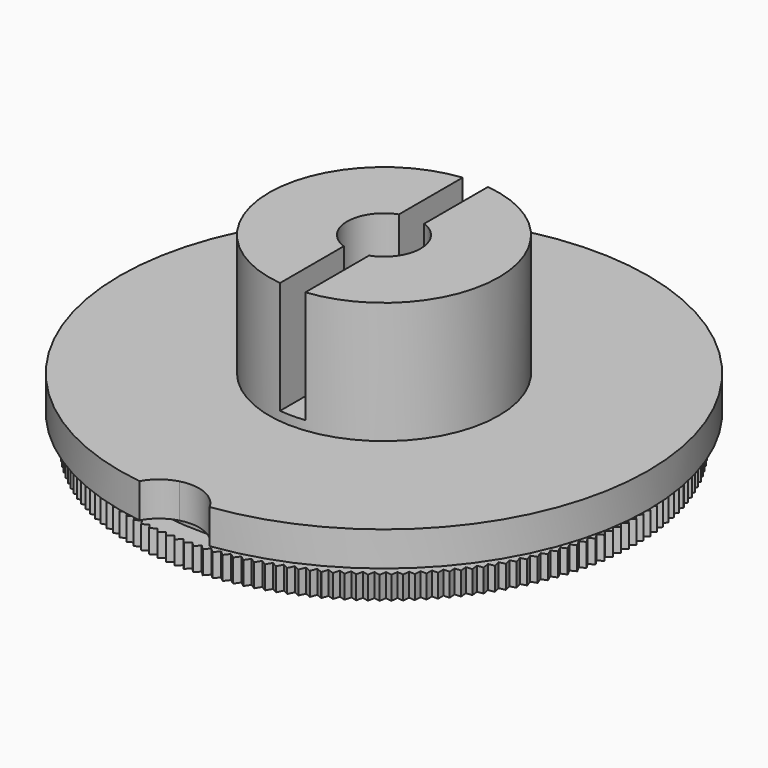
from build123d import *

# Parameters (mm, degrees)
F3_DEPTH  = 1
F4_COUNT  = 173
F4_ANGLE  = 357.927
F8_DEPTH  = 0.8
F10_DEPTH = 1.5
F12_DEPTH = 4.9


with BuildPart() as f1:
    # F0 (on Front) → F1 (revolve)
    with BuildSketch(Plane.XZ):
        Polygon((4.3, 0), (5, 0), (5, 1.7), (11, 1.7), (11, 2.7), (10, 2.7), (10, 3.2), (11.5, 3.2), (11.5, 4.7), (5, 4.7), (5, 10), (1.6, 10), (1.6, 5), (4, 5), (4, 0.3), align=None)
    revolve(axis=Axis((0, 0, 5), (0, 0, 1)))


with BuildPart() as f3:
    # F2 (on face) → F3 (new body, through all)
    with BuildSketch(Plane(origin=(0, 0, 1.7), x_dir=(1, 0, 0), z_dir=(0, 0, -1))):
        with BuildLine():
            Line((-10.9978550222, -0.217220881), (-10.8, 0))
            Line((-10.8, 0), (-10.9985137939, 0.180815725))
            ThreePointArc((-10.9985137939, 0.180815725), (-10.9999849344, -0.0182055579), (-10.9978550222, -0.217220881))
        make_face()
    extrude(amount=-F3_DEPTH)


with BuildPart() as f4_1:
    # F4: instance of F3
    add(f3.part.rotate(Axis((0, 0, 5), (0, 0, 1)), 1 * F4_ANGLE / (F4_COUNT - 1)))


with BuildPart() as f4_2:
    # F4: instance of F3
    add(f3.part.rotate(Axis((0, 0, 5), (0, 0, 1)), 2 * F4_ANGLE / (F4_COUNT - 1)))


with BuildPart() as f4_3:
    # F4: instance of F3
    add(f3.part.rotate(Axis((0, 0, 5), (0, 0, 1)), 3 * F4_ANGLE / (F4_COUNT - 1)))


with BuildPart() as f4_4:
    # F4: instance of F3
    add(f3.part.rotate(Axis((0, 0, 5), (0, 0, 1)), 4 * F4_ANGLE / (F4_COUNT - 1)))


with BuildPart() as f4_5:
    # F4: instance of F3
    add(f3.part.rotate(Axis((0, 0, 5), (0, 0, 1)), 5 * F4_ANGLE / (F4_COUNT - 1)))


with BuildPart() as f4_6:
    # F4: instance of F3
    add(f3.part.rotate(Axis((0, 0, 5), (0, 0, 1)), 6 * F4_ANGLE / (F4_COUNT - 1)))


with BuildPart() as f4_7:
    # F4: instance of F3
    add(f3.part.rotate(Axis((0, 0, 5), (0, 0, 1)), 7 * F4_ANGLE / (F4_COUNT - 1)))


with BuildPart() as f4_8:
    # F4: instance of F3
    add(f3.part.rotate(Axis((0, 0, 5), (0, 0, 1)), 8 * F4_ANGLE / (F4_COUNT - 1)))


with BuildPart() as f4_9:
    # F4: instance of F3
    add(f3.part.rotate(Axis((0, 0, 5), (0, 0, 1)), 9 * F4_ANGLE / (F4_COUNT - 1)))


with BuildPart() as f4_10:
    # F4: instance of F3
    add(f3.part.rotate(Axis((0, 0, 5), (0, 0, 1)), 10 * F4_ANGLE / (F4_COUNT - 1)))


with BuildPart() as f4_11:
    # F4: instance of F3
    add(f3.part.rotate(Axis((0, 0, 5), (0, 0, 1)), 11 * F4_ANGLE / (F4_COUNT - 1)))


with BuildPart() as f4_12:
    # F4: instance of F3
    add(f3.part.rotate(Axis((0, 0, 5), (0, 0, 1)), 12 * F4_ANGLE / (F4_COUNT - 1)))


with BuildPart() as f4_13:
    # F4: instance of F3
    add(f3.part.rotate(Axis((0, 0, 5), (0, 0, 1)), 13 * F4_ANGLE / (F4_COUNT - 1)))


with BuildPart() as f4_14:
    # F4: instance of F3
    add(f3.part.rotate(Axis((0, 0, 5), (0, 0, 1)), 14 * F4_ANGLE / (F4_COUNT - 1)))


with BuildPart() as f4_15:
    # F4: instance of F3
    add(f3.part.rotate(Axis((0, 0, 5), (0, 0, 1)), 15 * F4_ANGLE / (F4_COUNT - 1)))


with BuildPart() as f4_16:
    # F4: instance of F3
    add(f3.part.rotate(Axis((0, 0, 5), (0, 0, 1)), 16 * F4_ANGLE / (F4_COUNT - 1)))


with BuildPart() as f4_17:
    # F4: instance of F3
    add(f3.part.rotate(Axis((0, 0, 5), (0, 0, 1)), 17 * F4_ANGLE / (F4_COUNT - 1)))


with BuildPart() as f4_18:
    # F4: instance of F3
    add(f3.part.rotate(Axis((0, 0, 5), (0, 0, 1)), 18 * F4_ANGLE / (F4_COUNT - 1)))


with BuildPart() as f4_19:
    # F4: instance of F3
    add(f3.part.rotate(Axis((0, 0, 5), (0, 0, 1)), 19 * F4_ANGLE / (F4_COUNT - 1)))


with BuildPart() as f4_20:
    # F4: instance of F3
    add(f3.part.rotate(Axis((0, 0, 5), (0, 0, 1)), 20 * F4_ANGLE / (F4_COUNT - 1)))


with BuildPart() as f4_21:
    # F4: instance of F3
    add(f3.part.rotate(Axis((0, 0, 5), (0, 0, 1)), 21 * F4_ANGLE / (F4_COUNT - 1)))


with BuildPart() as f4_22:
    # F4: instance of F3
    add(f3.part.rotate(Axis((0, 0, 5), (0, 0, 1)), 22 * F4_ANGLE / (F4_COUNT - 1)))


with BuildPart() as f4_23:
    # F4: instance of F3
    add(f3.part.rotate(Axis((0, 0, 5), (0, 0, 1)), 23 * F4_ANGLE / (F4_COUNT - 1)))


with BuildPart() as f4_24:
    # F4: instance of F3
    add(f3.part.rotate(Axis((0, 0, 5), (0, 0, 1)), 24 * F4_ANGLE / (F4_COUNT - 1)))


with BuildPart() as f4_25:
    # F4: instance of F3
    add(f3.part.rotate(Axis((0, 0, 5), (0, 0, 1)), 25 * F4_ANGLE / (F4_COUNT - 1)))


with BuildPart() as f4_26:
    # F4: instance of F3
    add(f3.part.rotate(Axis((0, 0, 5), (0, 0, 1)), 26 * F4_ANGLE / (F4_COUNT - 1)))


with BuildPart() as f4_27:
    # F4: instance of F3
    add(f3.part.rotate(Axis((0, 0, 5), (0, 0, 1)), 27 * F4_ANGLE / (F4_COUNT - 1)))


with BuildPart() as f4_28:
    # F4: instance of F3
    add(f3.part.rotate(Axis((0, 0, 5), (0, 0, 1)), 28 * F4_ANGLE / (F4_COUNT - 1)))


with BuildPart() as f4_29:
    # F4: instance of F3
    add(f3.part.rotate(Axis((0, 0, 5), (0, 0, 1)), 29 * F4_ANGLE / (F4_COUNT - 1)))


with BuildPart() as f4_30:
    # F4: instance of F3
    add(f3.part.rotate(Axis((0, 0, 5), (0, 0, 1)), 30 * F4_ANGLE / (F4_COUNT - 1)))


with BuildPart() as f4_31:
    # F4: instance of F3
    add(f3.part.rotate(Axis((0, 0, 5), (0, 0, 1)), 31 * F4_ANGLE / (F4_COUNT - 1)))


with BuildPart() as f4_32:
    # F4: instance of F3
    add(f3.part.rotate(Axis((0, 0, 5), (0, 0, 1)), 32 * F4_ANGLE / (F4_COUNT - 1)))


with BuildPart() as f4_33:
    # F4: instance of F3
    add(f3.part.rotate(Axis((0, 0, 5), (0, 0, 1)), 33 * F4_ANGLE / (F4_COUNT - 1)))


with BuildPart() as f4_34:
    # F4: instance of F3
    add(f3.part.rotate(Axis((0, 0, 5), (0, 0, 1)), 34 * F4_ANGLE / (F4_COUNT - 1)))


with BuildPart() as f4_35:
    # F4: instance of F3
    add(f3.part.rotate(Axis((0, 0, 5), (0, 0, 1)), 35 * F4_ANGLE / (F4_COUNT - 1)))


with BuildPart() as f4_36:
    # F4: instance of F3
    add(f3.part.rotate(Axis((0, 0, 5), (0, 0, 1)), 36 * F4_ANGLE / (F4_COUNT - 1)))


with BuildPart() as f4_37:
    # F4: instance of F3
    add(f3.part.rotate(Axis((0, 0, 5), (0, 0, 1)), 37 * F4_ANGLE / (F4_COUNT - 1)))


with BuildPart() as f4_38:
    # F4: instance of F3
    add(f3.part.rotate(Axis((0, 0, 5), (0, 0, 1)), 38 * F4_ANGLE / (F4_COUNT - 1)))


with BuildPart() as f4_39:
    # F4: instance of F3
    add(f3.part.rotate(Axis((0, 0, 5), (0, 0, 1)), 39 * F4_ANGLE / (F4_COUNT - 1)))


with BuildPart() as f4_40:
    # F4: instance of F3
    add(f3.part.rotate(Axis((0, 0, 5), (0, 0, 1)), 40 * F4_ANGLE / (F4_COUNT - 1)))


with BuildPart() as f4_41:
    # F4: instance of F3
    add(f3.part.rotate(Axis((0, 0, 5), (0, 0, 1)), 41 * F4_ANGLE / (F4_COUNT - 1)))


with BuildPart() as f4_42:
    # F4: instance of F3
    add(f3.part.rotate(Axis((0, 0, 5), (0, 0, 1)), 42 * F4_ANGLE / (F4_COUNT - 1)))


with BuildPart() as f4_43:
    # F4: instance of F3
    add(f3.part.rotate(Axis((0, 0, 5), (0, 0, 1)), 43 * F4_ANGLE / (F4_COUNT - 1)))


with BuildPart() as f4_44:
    # F4: instance of F3
    add(f3.part.rotate(Axis((0, 0, 5), (0, 0, 1)), 44 * F4_ANGLE / (F4_COUNT - 1)))


with BuildPart() as f4_45:
    # F4: instance of F3
    add(f3.part.rotate(Axis((0, 0, 5), (0, 0, 1)), 45 * F4_ANGLE / (F4_COUNT - 1)))


with BuildPart() as f4_46:
    # F4: instance of F3
    add(f3.part.rotate(Axis((0, 0, 5), (0, 0, 1)), 46 * F4_ANGLE / (F4_COUNT - 1)))


with BuildPart() as f4_47:
    # F4: instance of F3
    add(f3.part.rotate(Axis((0, 0, 5), (0, 0, 1)), 47 * F4_ANGLE / (F4_COUNT - 1)))


with BuildPart() as f4_48:
    # F4: instance of F3
    add(f3.part.rotate(Axis((0, 0, 5), (0, 0, 1)), 48 * F4_ANGLE / (F4_COUNT - 1)))


with BuildPart() as f4_49:
    # F4: instance of F3
    add(f3.part.rotate(Axis((0, 0, 5), (0, 0, 1)), 49 * F4_ANGLE / (F4_COUNT - 1)))


with BuildPart() as f4_50:
    # F4: instance of F3
    add(f3.part.rotate(Axis((0, 0, 5), (0, 0, 1)), 50 * F4_ANGLE / (F4_COUNT - 1)))


with BuildPart() as f4_51:
    # F4: instance of F3
    add(f3.part.rotate(Axis((0, 0, 5), (0, 0, 1)), 51 * F4_ANGLE / (F4_COUNT - 1)))


with BuildPart() as f4_52:
    # F4: instance of F3
    add(f3.part.rotate(Axis((0, 0, 5), (0, 0, 1)), 52 * F4_ANGLE / (F4_COUNT - 1)))


with BuildPart() as f4_53:
    # F4: instance of F3
    add(f3.part.rotate(Axis((0, 0, 5), (0, 0, 1)), 53 * F4_ANGLE / (F4_COUNT - 1)))


with BuildPart() as f4_54:
    # F4: instance of F3
    add(f3.part.rotate(Axis((0, 0, 5), (0, 0, 1)), 54 * F4_ANGLE / (F4_COUNT - 1)))


with BuildPart() as f4_55:
    # F4: instance of F3
    add(f3.part.rotate(Axis((0, 0, 5), (0, 0, 1)), 55 * F4_ANGLE / (F4_COUNT - 1)))


with BuildPart() as f4_56:
    # F4: instance of F3
    add(f3.part.rotate(Axis((0, 0, 5), (0, 0, 1)), 56 * F4_ANGLE / (F4_COUNT - 1)))


with BuildPart() as f4_57:
    # F4: instance of F3
    add(f3.part.rotate(Axis((0, 0, 5), (0, 0, 1)), 57 * F4_ANGLE / (F4_COUNT - 1)))


with BuildPart() as f4_58:
    # F4: instance of F3
    add(f3.part.rotate(Axis((0, 0, 5), (0, 0, 1)), 58 * F4_ANGLE / (F4_COUNT - 1)))


with BuildPart() as f4_59:
    # F4: instance of F3
    add(f3.part.rotate(Axis((0, 0, 5), (0, 0, 1)), 59 * F4_ANGLE / (F4_COUNT - 1)))


with BuildPart() as f4_60:
    # F4: instance of F3
    add(f3.part.rotate(Axis((0, 0, 5), (0, 0, 1)), 60 * F4_ANGLE / (F4_COUNT - 1)))


with BuildPart() as f4_61:
    # F4: instance of F3
    add(f3.part.rotate(Axis((0, 0, 5), (0, 0, 1)), 61 * F4_ANGLE / (F4_COUNT - 1)))


with BuildPart() as f4_62:
    # F4: instance of F3
    add(f3.part.rotate(Axis((0, 0, 5), (0, 0, 1)), 62 * F4_ANGLE / (F4_COUNT - 1)))


with BuildPart() as f4_63:
    # F4: instance of F3
    add(f3.part.rotate(Axis((0, 0, 5), (0, 0, 1)), 63 * F4_ANGLE / (F4_COUNT - 1)))


with BuildPart() as f4_64:
    # F4: instance of F3
    add(f3.part.rotate(Axis((0, 0, 5), (0, 0, 1)), 64 * F4_ANGLE / (F4_COUNT - 1)))


with BuildPart() as f4_65:
    # F4: instance of F3
    add(f3.part.rotate(Axis((0, 0, 5), (0, 0, 1)), 65 * F4_ANGLE / (F4_COUNT - 1)))


with BuildPart() as f4_66:
    # F4: instance of F3
    add(f3.part.rotate(Axis((0, 0, 5), (0, 0, 1)), 66 * F4_ANGLE / (F4_COUNT - 1)))


with BuildPart() as f4_67:
    # F4: instance of F3
    add(f3.part.rotate(Axis((0, 0, 5), (0, 0, 1)), 67 * F4_ANGLE / (F4_COUNT - 1)))


with BuildPart() as f4_68:
    # F4: instance of F3
    add(f3.part.rotate(Axis((0, 0, 5), (0, 0, 1)), 68 * F4_ANGLE / (F4_COUNT - 1)))


with BuildPart() as f4_69:
    # F4: instance of F3
    add(f3.part.rotate(Axis((0, 0, 5), (0, 0, 1)), 69 * F4_ANGLE / (F4_COUNT - 1)))


with BuildPart() as f4_70:
    # F4: instance of F3
    add(f3.part.rotate(Axis((0, 0, 5), (0, 0, 1)), 70 * F4_ANGLE / (F4_COUNT - 1)))


with BuildPart() as f4_71:
    # F4: instance of F3
    add(f3.part.rotate(Axis((0, 0, 5), (0, 0, 1)), 71 * F4_ANGLE / (F4_COUNT - 1)))


with BuildPart() as f4_72:
    # F4: instance of F3
    add(f3.part.rotate(Axis((0, 0, 5), (0, 0, 1)), 72 * F4_ANGLE / (F4_COUNT - 1)))


with BuildPart() as f4_73:
    # F4: instance of F3
    add(f3.part.rotate(Axis((0, 0, 5), (0, 0, 1)), 73 * F4_ANGLE / (F4_COUNT - 1)))


with BuildPart() as f4_74:
    # F4: instance of F3
    add(f3.part.rotate(Axis((0, 0, 5), (0, 0, 1)), 74 * F4_ANGLE / (F4_COUNT - 1)))


with BuildPart() as f4_75:
    # F4: instance of F3
    add(f3.part.rotate(Axis((0, 0, 5), (0, 0, 1)), 75 * F4_ANGLE / (F4_COUNT - 1)))


with BuildPart() as f4_76:
    # F4: instance of F3
    add(f3.part.rotate(Axis((0, 0, 5), (0, 0, 1)), 76 * F4_ANGLE / (F4_COUNT - 1)))


with BuildPart() as f4_77:
    # F4: instance of F3
    add(f3.part.rotate(Axis((0, 0, 5), (0, 0, 1)), 77 * F4_ANGLE / (F4_COUNT - 1)))


with BuildPart() as f4_78:
    # F4: instance of F3
    add(f3.part.rotate(Axis((0, 0, 5), (0, 0, 1)), 78 * F4_ANGLE / (F4_COUNT - 1)))


with BuildPart() as f4_79:
    # F4: instance of F3
    add(f3.part.rotate(Axis((0, 0, 5), (0, 0, 1)), 79 * F4_ANGLE / (F4_COUNT - 1)))


with BuildPart() as f4_80:
    # F4: instance of F3
    add(f3.part.rotate(Axis((0, 0, 5), (0, 0, 1)), 80 * F4_ANGLE / (F4_COUNT - 1)))


with BuildPart() as f4_81:
    # F4: instance of F3
    add(f3.part.rotate(Axis((0, 0, 5), (0, 0, 1)), 81 * F4_ANGLE / (F4_COUNT - 1)))


with BuildPart() as f4_82:
    # F4: instance of F3
    add(f3.part.rotate(Axis((0, 0, 5), (0, 0, 1)), 82 * F4_ANGLE / (F4_COUNT - 1)))


with BuildPart() as f4_83:
    # F4: instance of F3
    add(f3.part.rotate(Axis((0, 0, 5), (0, 0, 1)), 83 * F4_ANGLE / (F4_COUNT - 1)))


with BuildPart() as f4_84:
    # F4: instance of F3
    add(f3.part.rotate(Axis((0, 0, 5), (0, 0, 1)), 84 * F4_ANGLE / (F4_COUNT - 1)))


with BuildPart() as f4_85:
    # F4: instance of F3
    add(f3.part.rotate(Axis((0, 0, 5), (0, 0, 1)), 85 * F4_ANGLE / (F4_COUNT - 1)))


with BuildPart() as f4_86:
    # F4: instance of F3
    add(f3.part.rotate(Axis((0, 0, 5), (0, 0, 1)), 86 * F4_ANGLE / (F4_COUNT - 1)))


with BuildPart() as f4_87:
    # F4: instance of F3
    add(f3.part.rotate(Axis((0, 0, 5), (0, 0, 1)), 87 * F4_ANGLE / (F4_COUNT - 1)))


with BuildPart() as f4_88:
    # F4: instance of F3
    add(f3.part.rotate(Axis((0, 0, 5), (0, 0, 1)), 88 * F4_ANGLE / (F4_COUNT - 1)))


with BuildPart() as f4_89:
    # F4: instance of F3
    add(f3.part.rotate(Axis((0, 0, 5), (0, 0, 1)), 89 * F4_ANGLE / (F4_COUNT - 1)))


with BuildPart() as f4_90:
    # F4: instance of F3
    add(f3.part.rotate(Axis((0, 0, 5), (0, 0, 1)), 90 * F4_ANGLE / (F4_COUNT - 1)))


with BuildPart() as f4_91:
    # F4: instance of F3
    add(f3.part.rotate(Axis((0, 0, 5), (0, 0, 1)), 91 * F4_ANGLE / (F4_COUNT - 1)))


with BuildPart() as f4_92:
    # F4: instance of F3
    add(f3.part.rotate(Axis((0, 0, 5), (0, 0, 1)), 92 * F4_ANGLE / (F4_COUNT - 1)))


with BuildPart() as f4_93:
    # F4: instance of F3
    add(f3.part.rotate(Axis((0, 0, 5), (0, 0, 1)), 93 * F4_ANGLE / (F4_COUNT - 1)))


with BuildPart() as f4_94:
    # F4: instance of F3
    add(f3.part.rotate(Axis((0, 0, 5), (0, 0, 1)), 94 * F4_ANGLE / (F4_COUNT - 1)))


with BuildPart() as f4_95:
    # F4: instance of F3
    add(f3.part.rotate(Axis((0, 0, 5), (0, 0, 1)), 95 * F4_ANGLE / (F4_COUNT - 1)))


with BuildPart() as f4_96:
    # F4: instance of F3
    add(f3.part.rotate(Axis((0, 0, 5), (0, 0, 1)), 96 * F4_ANGLE / (F4_COUNT - 1)))


with BuildPart() as f4_97:
    # F4: instance of F3
    add(f3.part.rotate(Axis((0, 0, 5), (0, 0, 1)), 97 * F4_ANGLE / (F4_COUNT - 1)))


with BuildPart() as f4_98:
    # F4: instance of F3
    add(f3.part.rotate(Axis((0, 0, 5), (0, 0, 1)), 98 * F4_ANGLE / (F4_COUNT - 1)))


with BuildPart() as f4_99:
    # F4: instance of F3
    add(f3.part.rotate(Axis((0, 0, 5), (0, 0, 1)), 99 * F4_ANGLE / (F4_COUNT - 1)))


with BuildPart() as f4_100:
    # F4: instance of F3
    add(f3.part.rotate(Axis((0, 0, 5), (0, 0, 1)), 100 * F4_ANGLE / (F4_COUNT - 1)))


with BuildPart() as f4_101:
    # F4: instance of F3
    add(f3.part.rotate(Axis((0, 0, 5), (0, 0, 1)), 101 * F4_ANGLE / (F4_COUNT - 1)))


with BuildPart() as f4_102:
    # F4: instance of F3
    add(f3.part.rotate(Axis((0, 0, 5), (0, 0, 1)), 102 * F4_ANGLE / (F4_COUNT - 1)))


with BuildPart() as f4_103:
    # F4: instance of F3
    add(f3.part.rotate(Axis((0, 0, 5), (0, 0, 1)), 103 * F4_ANGLE / (F4_COUNT - 1)))


with BuildPart() as f4_104:
    # F4: instance of F3
    add(f3.part.rotate(Axis((0, 0, 5), (0, 0, 1)), 104 * F4_ANGLE / (F4_COUNT - 1)))


with BuildPart() as f4_105:
    # F4: instance of F3
    add(f3.part.rotate(Axis((0, 0, 5), (0, 0, 1)), 105 * F4_ANGLE / (F4_COUNT - 1)))


with BuildPart() as f4_106:
    # F4: instance of F3
    add(f3.part.rotate(Axis((0, 0, 5), (0, 0, 1)), 106 * F4_ANGLE / (F4_COUNT - 1)))


with BuildPart() as f4_107:
    # F4: instance of F3
    add(f3.part.rotate(Axis((0, 0, 5), (0, 0, 1)), 107 * F4_ANGLE / (F4_COUNT - 1)))


with BuildPart() as f4_108:
    # F4: instance of F3
    add(f3.part.rotate(Axis((0, 0, 5), (0, 0, 1)), 108 * F4_ANGLE / (F4_COUNT - 1)))


with BuildPart() as f4_109:
    # F4: instance of F3
    add(f3.part.rotate(Axis((0, 0, 5), (0, 0, 1)), 109 * F4_ANGLE / (F4_COUNT - 1)))


with BuildPart() as f4_110:
    # F4: instance of F3
    add(f3.part.rotate(Axis((0, 0, 5), (0, 0, 1)), 110 * F4_ANGLE / (F4_COUNT - 1)))


with BuildPart() as f4_111:
    # F4: instance of F3
    add(f3.part.rotate(Axis((0, 0, 5), (0, 0, 1)), 111 * F4_ANGLE / (F4_COUNT - 1)))


with BuildPart() as f4_112:
    # F4: instance of F3
    add(f3.part.rotate(Axis((0, 0, 5), (0, 0, 1)), 112 * F4_ANGLE / (F4_COUNT - 1)))


with BuildPart() as f4_113:
    # F4: instance of F3
    add(f3.part.rotate(Axis((0, 0, 5), (0, 0, 1)), 113 * F4_ANGLE / (F4_COUNT - 1)))


with BuildPart() as f4_114:
    # F4: instance of F3
    add(f3.part.rotate(Axis((0, 0, 5), (0, 0, 1)), 114 * F4_ANGLE / (F4_COUNT - 1)))


with BuildPart() as f4_115:
    # F4: instance of F3
    add(f3.part.rotate(Axis((0, 0, 5), (0, 0, 1)), 115 * F4_ANGLE / (F4_COUNT - 1)))


with BuildPart() as f4_116:
    # F4: instance of F3
    add(f3.part.rotate(Axis((0, 0, 5), (0, 0, 1)), 116 * F4_ANGLE / (F4_COUNT - 1)))


with BuildPart() as f4_117:
    # F4: instance of F3
    add(f3.part.rotate(Axis((0, 0, 5), (0, 0, 1)), 117 * F4_ANGLE / (F4_COUNT - 1)))


with BuildPart() as f4_118:
    # F4: instance of F3
    add(f3.part.rotate(Axis((0, 0, 5), (0, 0, 1)), 118 * F4_ANGLE / (F4_COUNT - 1)))


with BuildPart() as f4_119:
    # F4: instance of F3
    add(f3.part.rotate(Axis((0, 0, 5), (0, 0, 1)), 119 * F4_ANGLE / (F4_COUNT - 1)))


with BuildPart() as f4_120:
    # F4: instance of F3
    add(f3.part.rotate(Axis((0, 0, 5), (0, 0, 1)), 120 * F4_ANGLE / (F4_COUNT - 1)))


with BuildPart() as f4_121:
    # F4: instance of F3
    add(f3.part.rotate(Axis((0, 0, 5), (0, 0, 1)), 121 * F4_ANGLE / (F4_COUNT - 1)))


with BuildPart() as f4_122:
    # F4: instance of F3
    add(f3.part.rotate(Axis((0, 0, 5), (0, 0, 1)), 122 * F4_ANGLE / (F4_COUNT - 1)))


with BuildPart() as f4_123:
    # F4: instance of F3
    add(f3.part.rotate(Axis((0, 0, 5), (0, 0, 1)), 123 * F4_ANGLE / (F4_COUNT - 1)))


with BuildPart() as f4_124:
    # F4: instance of F3
    add(f3.part.rotate(Axis((0, 0, 5), (0, 0, 1)), 124 * F4_ANGLE / (F4_COUNT - 1)))


with BuildPart() as f4_125:
    # F4: instance of F3
    add(f3.part.rotate(Axis((0, 0, 5), (0, 0, 1)), 125 * F4_ANGLE / (F4_COUNT - 1)))


with BuildPart() as f4_126:
    # F4: instance of F3
    add(f3.part.rotate(Axis((0, 0, 5), (0, 0, 1)), 126 * F4_ANGLE / (F4_COUNT - 1)))


with BuildPart() as f4_127:
    # F4: instance of F3
    add(f3.part.rotate(Axis((0, 0, 5), (0, 0, 1)), 127 * F4_ANGLE / (F4_COUNT - 1)))


with BuildPart() as f4_128:
    # F4: instance of F3
    add(f3.part.rotate(Axis((0, 0, 5), (0, 0, 1)), 128 * F4_ANGLE / (F4_COUNT - 1)))


with BuildPart() as f4_129:
    # F4: instance of F3
    add(f3.part.rotate(Axis((0, 0, 5), (0, 0, 1)), 129 * F4_ANGLE / (F4_COUNT - 1)))


with BuildPart() as f4_130:
    # F4: instance of F3
    add(f3.part.rotate(Axis((0, 0, 5), (0, 0, 1)), 130 * F4_ANGLE / (F4_COUNT - 1)))


with BuildPart() as f4_131:
    # F4: instance of F3
    add(f3.part.rotate(Axis((0, 0, 5), (0, 0, 1)), 131 * F4_ANGLE / (F4_COUNT - 1)))


with BuildPart() as f4_132:
    # F4: instance of F3
    add(f3.part.rotate(Axis((0, 0, 5), (0, 0, 1)), 132 * F4_ANGLE / (F4_COUNT - 1)))


with BuildPart() as f4_133:
    # F4: instance of F3
    add(f3.part.rotate(Axis((0, 0, 5), (0, 0, 1)), 133 * F4_ANGLE / (F4_COUNT - 1)))


with BuildPart() as f4_134:
    # F4: instance of F3
    add(f3.part.rotate(Axis((0, 0, 5), (0, 0, 1)), 134 * F4_ANGLE / (F4_COUNT - 1)))


with BuildPart() as f4_135:
    # F4: instance of F3
    add(f3.part.rotate(Axis((0, 0, 5), (0, 0, 1)), 135 * F4_ANGLE / (F4_COUNT - 1)))


with BuildPart() as f4_136:
    # F4: instance of F3
    add(f3.part.rotate(Axis((0, 0, 5), (0, 0, 1)), 136 * F4_ANGLE / (F4_COUNT - 1)))


with BuildPart() as f4_137:
    # F4: instance of F3
    add(f3.part.rotate(Axis((0, 0, 5), (0, 0, 1)), 137 * F4_ANGLE / (F4_COUNT - 1)))


with BuildPart() as f4_138:
    # F4: instance of F3
    add(f3.part.rotate(Axis((0, 0, 5), (0, 0, 1)), 138 * F4_ANGLE / (F4_COUNT - 1)))


with BuildPart() as f4_139:
    # F4: instance of F3
    add(f3.part.rotate(Axis((0, 0, 5), (0, 0, 1)), 139 * F4_ANGLE / (F4_COUNT - 1)))


with BuildPart() as f4_140:
    # F4: instance of F3
    add(f3.part.rotate(Axis((0, 0, 5), (0, 0, 1)), 140 * F4_ANGLE / (F4_COUNT - 1)))


with BuildPart() as f4_141:
    # F4: instance of F3
    add(f3.part.rotate(Axis((0, 0, 5), (0, 0, 1)), 141 * F4_ANGLE / (F4_COUNT - 1)))


with BuildPart() as f4_142:
    # F4: instance of F3
    add(f3.part.rotate(Axis((0, 0, 5), (0, 0, 1)), 142 * F4_ANGLE / (F4_COUNT - 1)))


with BuildPart() as f4_143:
    # F4: instance of F3
    add(f3.part.rotate(Axis((0, 0, 5), (0, 0, 1)), 143 * F4_ANGLE / (F4_COUNT - 1)))


with BuildPart() as f4_144:
    # F4: instance of F3
    add(f3.part.rotate(Axis((0, 0, 5), (0, 0, 1)), 144 * F4_ANGLE / (F4_COUNT - 1)))


with BuildPart() as f4_145:
    # F4: instance of F3
    add(f3.part.rotate(Axis((0, 0, 5), (0, 0, 1)), 145 * F4_ANGLE / (F4_COUNT - 1)))


with BuildPart() as f4_146:
    # F4: instance of F3
    add(f3.part.rotate(Axis((0, 0, 5), (0, 0, 1)), 146 * F4_ANGLE / (F4_COUNT - 1)))


with BuildPart() as f4_147:
    # F4: instance of F3
    add(f3.part.rotate(Axis((0, 0, 5), (0, 0, 1)), 147 * F4_ANGLE / (F4_COUNT - 1)))


with BuildPart() as f4_148:
    # F4: instance of F3
    add(f3.part.rotate(Axis((0, 0, 5), (0, 0, 1)), 148 * F4_ANGLE / (F4_COUNT - 1)))


with BuildPart() as f4_149:
    # F4: instance of F3
    add(f3.part.rotate(Axis((0, 0, 5), (0, 0, 1)), 149 * F4_ANGLE / (F4_COUNT - 1)))


with BuildPart() as f4_150:
    # F4: instance of F3
    add(f3.part.rotate(Axis((0, 0, 5), (0, 0, 1)), 150 * F4_ANGLE / (F4_COUNT - 1)))


with BuildPart() as f4_151:
    # F4: instance of F3
    add(f3.part.rotate(Axis((0, 0, 5), (0, 0, 1)), 151 * F4_ANGLE / (F4_COUNT - 1)))


with BuildPart() as f4_152:
    # F4: instance of F3
    add(f3.part.rotate(Axis((0, 0, 5), (0, 0, 1)), 152 * F4_ANGLE / (F4_COUNT - 1)))


with BuildPart() as f4_153:
    # F4: instance of F3
    add(f3.part.rotate(Axis((0, 0, 5), (0, 0, 1)), 153 * F4_ANGLE / (F4_COUNT - 1)))


with BuildPart() as f4_154:
    # F4: instance of F3
    add(f3.part.rotate(Axis((0, 0, 5), (0, 0, 1)), 154 * F4_ANGLE / (F4_COUNT - 1)))


with BuildPart() as f4_155:
    # F4: instance of F3
    add(f3.part.rotate(Axis((0, 0, 5), (0, 0, 1)), 155 * F4_ANGLE / (F4_COUNT - 1)))


with BuildPart() as f4_156:
    # F4: instance of F3
    add(f3.part.rotate(Axis((0, 0, 5), (0, 0, 1)), 156 * F4_ANGLE / (F4_COUNT - 1)))


with BuildPart() as f4_157:
    # F4: instance of F3
    add(f3.part.rotate(Axis((0, 0, 5), (0, 0, 1)), 157 * F4_ANGLE / (F4_COUNT - 1)))


with BuildPart() as f4_158:
    # F4: instance of F3
    add(f3.part.rotate(Axis((0, 0, 5), (0, 0, 1)), 158 * F4_ANGLE / (F4_COUNT - 1)))


with BuildPart() as f4_159:
    # F4: instance of F3
    add(f3.part.rotate(Axis((0, 0, 5), (0, 0, 1)), 159 * F4_ANGLE / (F4_COUNT - 1)))


with BuildPart() as f4_160:
    # F4: instance of F3
    add(f3.part.rotate(Axis((0, 0, 5), (0, 0, 1)), 160 * F4_ANGLE / (F4_COUNT - 1)))


with BuildPart() as f4_161:
    # F4: instance of F3
    add(f3.part.rotate(Axis((0, 0, 5), (0, 0, 1)), 161 * F4_ANGLE / (F4_COUNT - 1)))


with BuildPart() as f4_162:
    # F4: instance of F3
    add(f3.part.rotate(Axis((0, 0, 5), (0, 0, 1)), 162 * F4_ANGLE / (F4_COUNT - 1)))


with BuildPart() as f4_163:
    # F4: instance of F3
    add(f3.part.rotate(Axis((0, 0, 5), (0, 0, 1)), 163 * F4_ANGLE / (F4_COUNT - 1)))


with BuildPart() as f4_164:
    # F4: instance of F3
    add(f3.part.rotate(Axis((0, 0, 5), (0, 0, 1)), 164 * F4_ANGLE / (F4_COUNT - 1)))


with BuildPart() as f4_165:
    # F4: instance of F3
    add(f3.part.rotate(Axis((0, 0, 5), (0, 0, 1)), 165 * F4_ANGLE / (F4_COUNT - 1)))


with BuildPart() as f4_166:
    # F4: instance of F3
    add(f3.part.rotate(Axis((0, 0, 5), (0, 0, 1)), 166 * F4_ANGLE / (F4_COUNT - 1)))


with BuildPart() as f4_167:
    # F4: instance of F3
    add(f3.part.rotate(Axis((0, 0, 5), (0, 0, 1)), 167 * F4_ANGLE / (F4_COUNT - 1)))


with BuildPart() as f4_168:
    # F4: instance of F3
    add(f3.part.rotate(Axis((0, 0, 5), (0, 0, 1)), 168 * F4_ANGLE / (F4_COUNT - 1)))


with BuildPart() as f4_169:
    # F4: instance of F3
    add(f3.part.rotate(Axis((0, 0, 5), (0, 0, 1)), 169 * F4_ANGLE / (F4_COUNT - 1)))


with BuildPart() as f4_170:
    # F4: instance of F3
    add(f3.part.rotate(Axis((0, 0, 5), (0, 0, 1)), 170 * F4_ANGLE / (F4_COUNT - 1)))


with BuildPart() as f4_171:
    # F4: instance of F3
    add(f3.part.rotate(Axis((0, 0, 5), (0, 0, 1)), 171 * F4_ANGLE / (F4_COUNT - 1)))


with BuildPart() as f4_172:
    # F4: instance of F3
    add(f3.part.rotate(Axis((0, 0, 5), (0, 0, 1)), 172 * F4_ANGLE / (F4_COUNT - 1)))


with BuildPart() as f1_1:
    add(f1.part)

    # F5: cut F4_168, F4_7, F4_55, F4_157, F4_36, F4_127, F4_138, F4_3, F4_66, F4_4, F4_39, F4_67, F4_65, F4_41, F4_82, F4_45, F4_100, F4_74, F4_84, F4_117, F4_27, F4_13, F4_148, F4_23, F4_88, F4_62, F4_1, F4_40, F4_170, F4_122, F4_149, F4_10, F4_51, F4_146, F4_34, F4_125, F4_53, F4_165, F4_98, F4_128, F4_130, F4_24, F4_52, F4_156, F4_77, F4_108, F4_169, F4_64, F3, F4_126, F4_140, F4_14, F4_78, F4_147, F4_154, F4_15, F4_116, F4_110, F4_121, F4_137, F4_134, F4_61, F4_95, F4_171, F4_21, F4_102, F4_93, F4_33, F4_160, F4_28, F4_101, F4_114, F4_44, F4_104, F4_83, F4_109, F4_141, F4_81, F4_75, F4_92, F4_9, F4_153, F4_159, F4_48, F4_115, F4_57, F4_29, F4_20, F4_142, F4_152, F4_124, F4_107, F4_50, F4_43, F4_22, F4_18, F4_164, F4_106, F4_145, F4_96, F4_31, F4_113, F4_47, F4_119, F4_103, F4_37, F4_11, F4_135, F4_150, F4_166, F4_162, F4_85, F4_151, F4_136, F4_19, F4_42, F4_60, F4_112, F4_30, F4_73, F4_58, F4_99, F4_172, F4_86, F4_56, F4_94, F4_87, F4_143, F4_49, F4_167, F4_72, F4_133, F4_123, F4_12, F4_6, F4_59, F4_17, F4_63, F4_163, F4_2, F4_68, F4_129, F4_70, F4_111, F4_16, F4_144, F4_139, F4_38, F4_120, F4_32, F4_105, F4_35, F4_132, F4_69, F4_79, F4_131, F4_26, F4_158, F4_91, F4_118, F4_90, F4_8, F4_76, F4_54, F4_97, F4_5, F4_161, F4_46, F4_71, F4_80, F4_25, F4_155, F4_89
    add(f4_168.part, mode=Mode.SUBTRACT)
    add(f4_7.part, mode=Mode.SUBTRACT)
    add(f4_55.part, mode=Mode.SUBTRACT)
    add(f4_157.part, mode=Mode.SUBTRACT)
    add(f4_36.part, mode=Mode.SUBTRACT)
    add(f4_127.part, mode=Mode.SUBTRACT)
    add(f4_138.part, mode=Mode.SUBTRACT)
    add(f4_3.part, mode=Mode.SUBTRACT)
    add(f4_66.part, mode=Mode.SUBTRACT)
    add(f4_4.part, mode=Mode.SUBTRACT)
    add(f4_39.part, mode=Mode.SUBTRACT)
    add(f4_67.part, mode=Mode.SUBTRACT)
    add(f4_65.part, mode=Mode.SUBTRACT)
    add(f4_41.part, mode=Mode.SUBTRACT)
    add(f4_82.part, mode=Mode.SUBTRACT)
    add(f4_45.part, mode=Mode.SUBTRACT)
    add(f4_100.part, mode=Mode.SUBTRACT)
    add(f4_74.part, mode=Mode.SUBTRACT)
    add(f4_84.part, mode=Mode.SUBTRACT)
    add(f4_117.part, mode=Mode.SUBTRACT)
    add(f4_27.part, mode=Mode.SUBTRACT)
    add(f4_13.part, mode=Mode.SUBTRACT)
    add(f4_148.part, mode=Mode.SUBTRACT)
    add(f4_23.part, mode=Mode.SUBTRACT)
    add(f4_88.part, mode=Mode.SUBTRACT)
    add(f4_62.part, mode=Mode.SUBTRACT)
    add(f4_1.part, mode=Mode.SUBTRACT)
    add(f4_40.part, mode=Mode.SUBTRACT)
    add(f4_170.part, mode=Mode.SUBTRACT)
    add(f4_122.part, mode=Mode.SUBTRACT)
    add(f4_149.part, mode=Mode.SUBTRACT)
    add(f4_10.part, mode=Mode.SUBTRACT)
    add(f4_51.part, mode=Mode.SUBTRACT)
    add(f4_146.part, mode=Mode.SUBTRACT)
    add(f4_34.part, mode=Mode.SUBTRACT)
    add(f4_125.part, mode=Mode.SUBTRACT)
    add(f4_53.part, mode=Mode.SUBTRACT)
    add(f4_165.part, mode=Mode.SUBTRACT)
    add(f4_98.part, mode=Mode.SUBTRACT)
    add(f4_128.part, mode=Mode.SUBTRACT)
    add(f4_130.part, mode=Mode.SUBTRACT)
    add(f4_24.part, mode=Mode.SUBTRACT)
    add(f4_52.part, mode=Mode.SUBTRACT)
    add(f4_156.part, mode=Mode.SUBTRACT)
    add(f4_77.part, mode=Mode.SUBTRACT)
    add(f4_108.part, mode=Mode.SUBTRACT)
    add(f4_169.part, mode=Mode.SUBTRACT)
    add(f4_64.part, mode=Mode.SUBTRACT)
    add(f3.part, mode=Mode.SUBTRACT)
    add(f4_126.part, mode=Mode.SUBTRACT)
    add(f4_140.part, mode=Mode.SUBTRACT)
    add(f4_14.part, mode=Mode.SUBTRACT)
    add(f4_78.part, mode=Mode.SUBTRACT)
    add(f4_147.part, mode=Mode.SUBTRACT)
    add(f4_154.part, mode=Mode.SUBTRACT)
    add(f4_15.part, mode=Mode.SUBTRACT)
    add(f4_116.part, mode=Mode.SUBTRACT)
    add(f4_110.part, mode=Mode.SUBTRACT)
    add(f4_121.part, mode=Mode.SUBTRACT)
    add(f4_137.part, mode=Mode.SUBTRACT)
    add(f4_134.part, mode=Mode.SUBTRACT)
    add(f4_61.part, mode=Mode.SUBTRACT)
    add(f4_95.part, mode=Mode.SUBTRACT)
    add(f4_171.part, mode=Mode.SUBTRACT)
    add(f4_21.part, mode=Mode.SUBTRACT)
    add(f4_102.part, mode=Mode.SUBTRACT)
    add(f4_93.part, mode=Mode.SUBTRACT)
    add(f4_33.part, mode=Mode.SUBTRACT)
    add(f4_160.part, mode=Mode.SUBTRACT)
    add(f4_28.part, mode=Mode.SUBTRACT)
    add(f4_101.part, mode=Mode.SUBTRACT)
    add(f4_114.part, mode=Mode.SUBTRACT)
    add(f4_44.part, mode=Mode.SUBTRACT)
    add(f4_104.part, mode=Mode.SUBTRACT)
    add(f4_83.part, mode=Mode.SUBTRACT)
    add(f4_109.part, mode=Mode.SUBTRACT)
    add(f4_141.part, mode=Mode.SUBTRACT)
    add(f4_81.part, mode=Mode.SUBTRACT)
    add(f4_75.part, mode=Mode.SUBTRACT)
    add(f4_92.part, mode=Mode.SUBTRACT)
    add(f4_9.part, mode=Mode.SUBTRACT)
    add(f4_153.part, mode=Mode.SUBTRACT)
    add(f4_159.part, mode=Mode.SUBTRACT)
    add(f4_48.part, mode=Mode.SUBTRACT)
    add(f4_115.part, mode=Mode.SUBTRACT)
    add(f4_57.part, mode=Mode.SUBTRACT)
    add(f4_29.part, mode=Mode.SUBTRACT)
    add(f4_20.part, mode=Mode.SUBTRACT)
    add(f4_142.part, mode=Mode.SUBTRACT)
    add(f4_152.part, mode=Mode.SUBTRACT)
    add(f4_124.part, mode=Mode.SUBTRACT)
    add(f4_107.part, mode=Mode.SUBTRACT)
    add(f4_50.part, mode=Mode.SUBTRACT)
    add(f4_43.part, mode=Mode.SUBTRACT)
    add(f4_22.part, mode=Mode.SUBTRACT)
    add(f4_18.part, mode=Mode.SUBTRACT)
    add(f4_164.part, mode=Mode.SUBTRACT)
    add(f4_106.part, mode=Mode.SUBTRACT)
    add(f4_145.part, mode=Mode.SUBTRACT)
    add(f4_96.part, mode=Mode.SUBTRACT)
    add(f4_31.part, mode=Mode.SUBTRACT)
    add(f4_113.part, mode=Mode.SUBTRACT)
    add(f4_47.part, mode=Mode.SUBTRACT)
    add(f4_119.part, mode=Mode.SUBTRACT)
    add(f4_103.part, mode=Mode.SUBTRACT)
    add(f4_37.part, mode=Mode.SUBTRACT)
    add(f4_11.part, mode=Mode.SUBTRACT)
    add(f4_135.part, mode=Mode.SUBTRACT)
    add(f4_150.part, mode=Mode.SUBTRACT)
    add(f4_166.part, mode=Mode.SUBTRACT)
    add(f4_162.part, mode=Mode.SUBTRACT)
    add(f4_85.part, mode=Mode.SUBTRACT)
    add(f4_151.part, mode=Mode.SUBTRACT)
    add(f4_136.part, mode=Mode.SUBTRACT)
    add(f4_19.part, mode=Mode.SUBTRACT)
    add(f4_42.part, mode=Mode.SUBTRACT)
    add(f4_60.part, mode=Mode.SUBTRACT)
    add(f4_112.part, mode=Mode.SUBTRACT)
    add(f4_30.part, mode=Mode.SUBTRACT)
    add(f4_73.part, mode=Mode.SUBTRACT)
    add(f4_58.part, mode=Mode.SUBTRACT)
    add(f4_99.part, mode=Mode.SUBTRACT)
    add(f4_172.part, mode=Mode.SUBTRACT)
    add(f4_86.part, mode=Mode.SUBTRACT)
    add(f4_56.part, mode=Mode.SUBTRACT)
    add(f4_94.part, mode=Mode.SUBTRACT)
    add(f4_87.part, mode=Mode.SUBTRACT)
    add(f4_143.part, mode=Mode.SUBTRACT)
    add(f4_49.part, mode=Mode.SUBTRACT)
    add(f4_167.part, mode=Mode.SUBTRACT)
    add(f4_72.part, mode=Mode.SUBTRACT)
    add(f4_133.part, mode=Mode.SUBTRACT)
    add(f4_123.part, mode=Mode.SUBTRACT)
    add(f4_12.part, mode=Mode.SUBTRACT)
    add(f4_6.part, mode=Mode.SUBTRACT)
    add(f4_59.part, mode=Mode.SUBTRACT)
    add(f4_17.part, mode=Mode.SUBTRACT)
    add(f4_63.part, mode=Mode.SUBTRACT)
    add(f4_163.part, mode=Mode.SUBTRACT)
    add(f4_2.part, mode=Mode.SUBTRACT)
    add(f4_68.part, mode=Mode.SUBTRACT)
    add(f4_129.part, mode=Mode.SUBTRACT)
    add(f4_70.part, mode=Mode.SUBTRACT)
    add(f4_111.part, mode=Mode.SUBTRACT)
    add(f4_16.part, mode=Mode.SUBTRACT)
    add(f4_144.part, mode=Mode.SUBTRACT)
    add(f4_139.part, mode=Mode.SUBTRACT)
    add(f4_38.part, mode=Mode.SUBTRACT)
    add(f4_120.part, mode=Mode.SUBTRACT)
    add(f4_32.part, mode=Mode.SUBTRACT)
    add(f4_105.part, mode=Mode.SUBTRACT)
    add(f4_35.part, mode=Mode.SUBTRACT)
    add(f4_132.part, mode=Mode.SUBTRACT)
    add(f4_69.part, mode=Mode.SUBTRACT)
    add(f4_79.part, mode=Mode.SUBTRACT)
    add(f4_131.part, mode=Mode.SUBTRACT)
    add(f4_26.part, mode=Mode.SUBTRACT)
    add(f4_158.part, mode=Mode.SUBTRACT)
    add(f4_91.part, mode=Mode.SUBTRACT)
    add(f4_118.part, mode=Mode.SUBTRACT)
    add(f4_90.part, mode=Mode.SUBTRACT)
    add(f4_8.part, mode=Mode.SUBTRACT)
    add(f4_76.part, mode=Mode.SUBTRACT)
    add(f4_54.part, mode=Mode.SUBTRACT)
    add(f4_97.part, mode=Mode.SUBTRACT)
    add(f4_5.part, mode=Mode.SUBTRACT)
    add(f4_161.part, mode=Mode.SUBTRACT)
    add(f4_46.part, mode=Mode.SUBTRACT)
    add(f4_71.part, mode=Mode.SUBTRACT)
    add(f4_80.part, mode=Mode.SUBTRACT)
    add(f4_25.part, mode=Mode.SUBTRACT)
    add(f4_155.part, mode=Mode.SUBTRACT)
    add(f4_89.part, mode=Mode.SUBTRACT)

    # F7 (on offset) → F8 (cut)
    with BuildSketch(Plane.XY.offset(1.5)):
        with BuildLine():
            ThreePointArc((-3.9230090492, -3.1), (0, -5), (3.9230090492, -3.1))
            Line((3.9230090492, -3.1), (-3.9230090492, -3.1))
        make_face()
        with BuildLine():
            Line((-3.9230090492, 3.1), (3.9230090492, 3.1))
            ThreePointArc((3.9230090492, 3.1), (0, 5), (-3.9230090492, 3.1))
        make_face()
    extrude(amount=-F8_DEPTH, mode=Mode.SUBTRACT)

    # F9 (on face) → F10 (cut, through all)
    with BuildSketch(Plane.XY.offset(4.7)):
        with BuildLine():
            ThreePointArc((-1.5285700662, -11.3979591837), (0, -11.5), (1.5285700662, -11.3979591837))
            ThreePointArc((1.5285700662, -11.3979591837), (0.6818706878, -10.6383076084), (-0.4529333289, -10.559629804))
            ThreePointArc((-0.4529333289, -10.559629804), (-1.0757731933, -10.8697058152), (-1.5285700662, -11.3979591837))
        make_face()
    extrude(amount=-F10_DEPTH, mode=Mode.SUBTRACT)

    # F11 (on face) → F12 (cut)
    with BuildSketch(Plane.XY.offset(10)):
        with BuildLine():
            ThreePointArc((0.55, 4.9696579359), (0, 5), (-0.55, 4.9696579359))
            Line((-0.55, 4.9696579359), (-0.55, 1.5024979201))
            ThreePointArc((-0.55, 1.5024979201), (0, 1.6), (0.55, 1.5024979201))
            Line((0.55, 1.5024979201), (0.55, 4.9696579359))
        make_face()
        with BuildLine():
            Line((-0.55, -1.5024979201), (-0.55, -4.9696579359))
            ThreePointArc((-0.55, -4.9696579359), (0, -5), (0.55, -4.9696579359))
            Line((0.55, -4.9696579359), (0.55, -1.5024979201))
            ThreePointArc((0.55, -1.5024979201), (0, -1.6), (-0.55, -1.5024979201))
        make_face()
    extrude(amount=-F12_DEPTH, mode=Mode.SUBTRACT)


solid = f1_1.part
